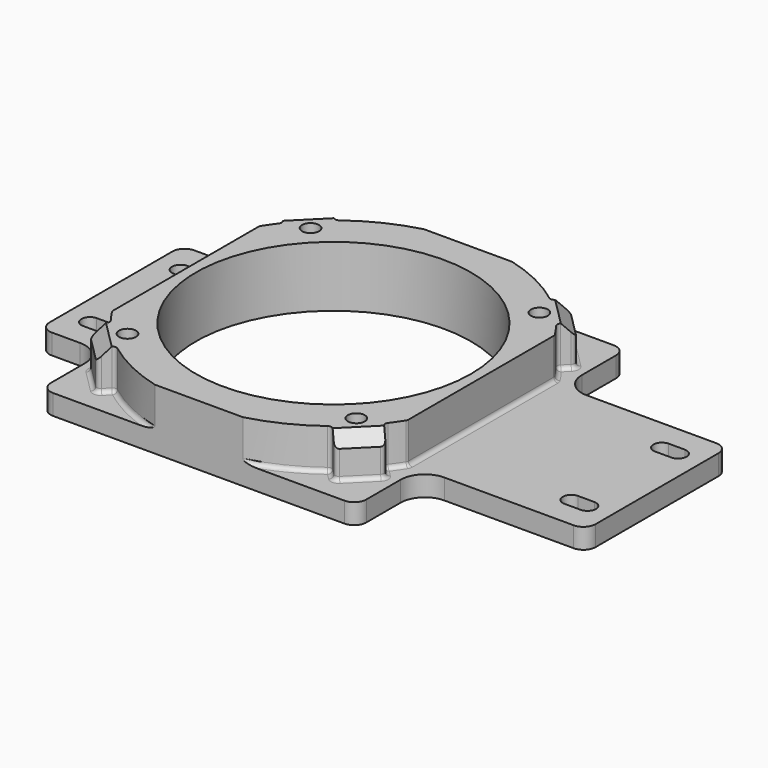
from build123d import *

# Parameters (mm, degrees)
SKETCH_R          = 34
PAD_DEPTH         = 5
SKETCH001_R       = 34
PAD001_DEPTH      = 10
CHAMFER_SIZE      = 3
SKETCH002_R       = 2.1
POCKET_DEPTH      = 5.001
POCKET_DEPTH_BACK = -10.001
POCKET001_DEPTH   = 5
FILLET_R          = 1
FILLET001_R       = 1


with BuildPart() as part:
    # Sketch → Pad (new body)
    with BuildSketch(Plane.XY):
        with BuildLine():
            Line((-36, -41.6), (36, -41.6))
            ThreePointArc((36, -41.6), (38.12132, -40.72132), (39, -38.6))
            Line((39, -28), (39, -38.6))
            ThreePointArc((45, -22), (40.757359, -23.757359), (39, -28))
            Line((45, -22), (77, -22))
            ThreePointArc((77, -22), (79.12132, -21.12132), (80, -19))
            Line((80, -19), (80, 19))
            ThreePointArc((80, 19), (79.12132, 21.12132), (77, 22))
            Line((45, 22), (77, 22))
            ThreePointArc((39, 28), (40.757359, 23.757359), (45, 22))
            Line((39, 38.6), (39, 28))
            ThreePointArc((39, 38.6), (38.12132, 40.72132), (36, 41.6))
            Line((36, 41.6), (-36, 41.6))
            ThreePointArc((-36, 41.6), (-38.12132, 40.72132), (-39, 38.6))
            Line((-39, 38.6), (-39, 28))
            ThreePointArc((-45, 22), (-40.757359, 23.757359), (-39, 28))
            Line((-52, 22), (-45, 22))
            ThreePointArc((-52, 22), (-54.12132, 21.12132), (-55, 19))
            Line((-55, -19), (-55, 19))
            ThreePointArc((-55, -19), (-54.12132, -21.12132), (-52, -22))
            Line((-52, -22), (-45, -22))
            ThreePointArc((-39, -28), (-40.757359, -23.757359), (-45, -22))
            Line((-39, -38.6), (-39, -28))
            ThreePointArc((-39, -38.6), (-38.12132, -40.72132), (-36, -41.6))
        make_face()
        Circle(SKETCH_R, mode=Mode.SUBTRACT)
        with BuildLine():
            ThreePointArc((74, 11.9), (76.1, 14), (74, 16.1))
            Line((74, 16.1), (70, 16.1))
            ThreePointArc((70, 16.1), (67.9, 14), (70, 11.9))
            Line((74, 11.9), (70, 11.9))
        make_face(mode=Mode.SUBTRACT)
        with BuildLine():
            ThreePointArc((74, -16.1), (76.1, -14), (74, -11.9))
            Line((74, -11.9), (70, -11.9))
            ThreePointArc((70, -11.9), (67.9, -14), (70, -16.1))
            Line((74, -16.1), (70, -16.1))
        make_face(mode=Mode.SUBTRACT)
        with BuildLine():
            ThreePointArc((-49, 16.1), (-51.1, 14), (-49, 11.9))
            Line((-49, 11.9), (-45, 11.9))
            ThreePointArc((-45, 11.9), (-42.9, 14), (-45, 16.1))
            Line((-49, 16.1), (-45, 16.1))
        make_face(mode=Mode.SUBTRACT)
        with BuildLine():
            ThreePointArc((-49, -11.9), (-51.1, -14), (-49, -16.1))
            Line((-49, -16.1), (-45, -16.1))
            ThreePointArc((-45, -16.1), (-42.9, -14), (-45, -11.9))
            Line((-49, -11.9), (-45, -11.9))
        make_face(mode=Mode.SUBTRACT)
    extrude(amount=-PAD_DEPTH)

    # Sketch001 → Pad001 (join)
    with BuildSketch(Plane.XY):
        with BuildLine():
            Line((-36.5, 22.732136), (-36.5, -22.732136))
            ThreePointArc((-36.5, -22.732136), (-35.172415, -24.736637), (-33.734872, -26.663804))
            Line((-36.5, -29.428932), (-33.734872, -26.663804))
            Line((-36.5, -29.428932), (-29.428932, -36.5))
            Line((-29.428932, -36.5), (-26.663804, -33.734872))
            ThreePointArc((-26.663804, -33.734872), (-19.180875, -38.484985), (-10.883014, -41.6))
            Line((-10.883014, -41.6), (10.883014, -41.6))
            ThreePointArc((10.883014, -41.6), (19.180875, -38.484985), (26.663804, -33.734872))
            Line((26.663804, -33.734872), (29.428932, -36.5))
            Line((29.428932, -36.5), (36.5, -29.428932))
            Line((36.5, -29.428932), (33.734872, -26.663804))
            ThreePointArc((33.734872, -26.663804), (35.172415, -24.736637), (36.5, -22.732136))
            Line((36.5, -22.732136), (36.5, 22.732136))
            ThreePointArc((36.5, 22.732136), (35.172415, 24.736637), (33.734872, 26.663804))
            Line((33.734872, 26.663804), (36.5, 29.428932))
            Line((36.5, 29.428932), (29.428932, 36.5))
            Line((29.428932, 36.5), (26.663804, 33.734872))
            ThreePointArc((26.663804, 33.734872), (19.180875, 38.484985), (10.883014, 41.6))
            Line((10.883014, 41.6), (-10.883014, 41.6))
            ThreePointArc((-10.883014, 41.6), (-19.180875, 38.484985), (-26.663804, 33.734872))
            Line((-29.428932, 36.5), (-26.663804, 33.734872))
            Line((-36.5, 29.428932), (-29.428932, 36.5))
            Line((-33.734872, 26.663804), (-36.5, 29.428932))
            ThreePointArc((-33.734872, 26.663804), (-35.172415, 24.736637), (-36.5, 22.732136))
        make_face()
        Circle(SKETCH001_R, mode=Mode.SUBTRACT)
    extrude(amount=PAD001_DEPTH)

    # Chamfer
    chamfer_edges = [part.edges().sort_by_distance(p)[0] for p in [
        (32.964466, 32.964466, 10),
        (-32.964466, 32.964466, 10),
        (-32.964466, -32.964466, 10),
        (32.964466, -32.964466, 10),
    ]]
    chamfer(chamfer_edges, length=CHAMFER_SIZE)

    # Sketch002 → Pocket (cut, two sides)
    with BuildSketch(Plane.XY) as pocket_sk:
        with Locations((-28.284271, 28.284271)):
            Circle(SKETCH002_R)
        with Locations((28.284271, 28.284271)):
            Circle(SKETCH002_R)
        with Locations((28.284271, -28.284271)):
            Circle(SKETCH002_R)
        with Locations((-28.284271, -28.284271)):
            Circle(SKETCH002_R)
    extrude(amount=-POCKET_DEPTH, mode=Mode.SUBTRACT)
    extrude(pocket_sk.sketch, amount=-POCKET_DEPTH_BACK, mode=Mode.SUBTRACT)

    # Sketch003 (on DatumPlane) → Pocket001 (cut)
    with BuildSketch(Plane(origin=(0, 0, -5), x_dir=(1, 0, 0), z_dir=(0, 0, -1))):
        Polygon((-32.132246, -29.315333), (-29.315333, -32.132246), (-25.467358, -31.101184), (-24.436296, -27.253209), (-27.253209, -24.436296), (-31.101184, -25.467358), align=None)
        Polygon((25.467358, -31.101184), (29.315333, -32.132246), (32.132246, -29.315333), (31.101184, -25.467358), (27.253209, -24.436296), (24.436296, -27.253209), align=None)
        Polygon((-25.467358, 31.101184), (-29.315333, 32.132246), (-32.132246, 29.315333), (-31.101184, 25.467358), (-27.253209, 24.436296), (-24.436296, 27.253209), align=None)
        Polygon((32.132246, 29.315333), (29.315333, 32.132246), (25.467358, 31.101184), (24.436296, 27.253209), (27.253209, 24.436296), (31.101184, 25.467358), align=None)
    extrude(amount=-POCKET001_DEPTH, mode=Mode.SUBTRACT)

    # Fillet
    fillet_edges = [part.edges().sort_by_distance(p)[0] for p in [
        (-26.663804, -33.734872, 5),
        (-29.428932, -36.5, 3.5),
        (26.663804, -33.734872, 5),
        (29.428932, -36.5, 3.5),
        (36.5, -29.428932, 3.5),
        (26.663804, 33.734872, 5),
        (29.428932, 36.5, 3.5),
        (36.5, 29.428932, 3.5),
        (-26.663804, 33.734872, 5),
        (-29.428932, 36.5, 3.5),
        (-36.5, 29.428932, 3.5),
        (-36.5, -29.428932, 3.5),
    ]]
    fillet(fillet_edges, radius=FILLET_R)

    # Fillet001
    fillet001_edges = [part.edges().sort_by_distance(p)[0] for p in [
        (33.734872, -26.663804, 5),
        (33.734872, 26.663804, 5),
        (-33.734872, 26.663804, 5),
        (-33.734872, -26.663804, 5),
        (32.964466, -32.964466, 0),
        (35.172415, -24.736637, 0),
        (35.172415, 24.736637, 0),
        (32.964466, 32.964466, 0),
        (-32.964466, 32.964466, 0),
        (-35.172415, 24.736637, 0),
        (-35.172415, -24.736637, 0),
        (-32.964466, -32.964466, 0),
        (36.5, 22.732136, 5),
        (36.5, -22.732136, 5),
        (36.5, 0, 0),
        (-36.5, 22.732136, 5),
        (-36.5, -22.732136, 5),
        (-36.5, 0, 0),
    ]]
    fillet(fillet001_edges, radius=FILLET001_R)


solid = part.part
